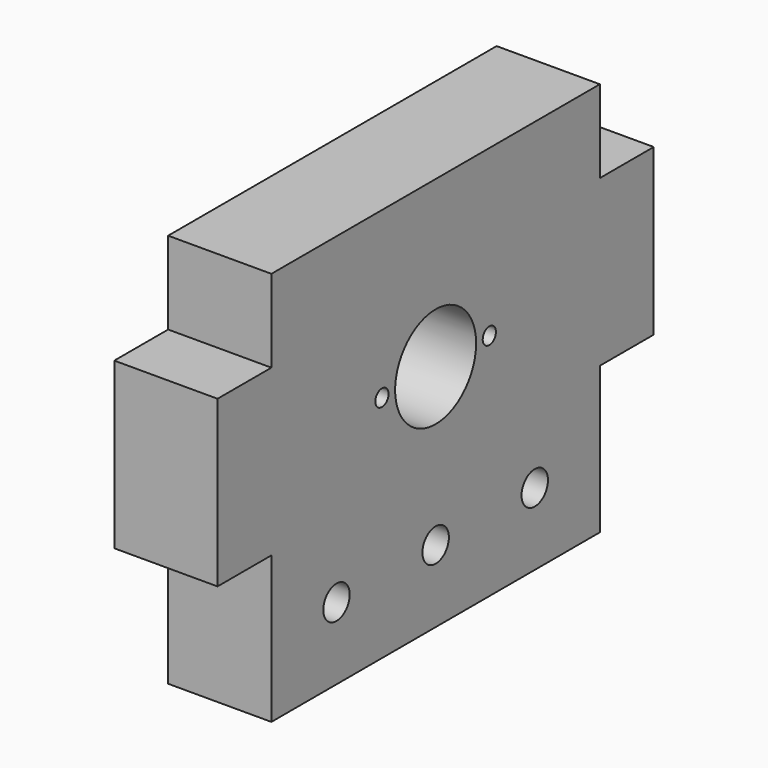
from build123d import *

# Parameters (mm, degrees)
SKETCH_R      = 12.25
SKETCH_R_2    = 2
SKETCH_R_3    = 4
PAD_DEPTH     = 12.5
SKETCH001_W   = 8
SKETCH001_H   = 40
PAD001_DEPTH  = 12.5
SKETCH002_W   = 8
SKETCH002_H   = 40
PAD002_DEPTH  = 12.5
SKETCH003_R   = 20.25
SKETCH003_R_2 = 12.25
SKETCH003_R_3 = 2
PAD003_DEPTH  = 12.5


with BuildPart() as part:
    # Sketch → Pad (new body, symmetric)
    with BuildSketch(Plane.YZ):
        Polygon((-49.7, 40), (49.7, 40), (49.7, 20), (66, 20), (66, -20), (49.7, -20), (49.7, -55.5), (-49.7, -55.5), (-49.7, -20), (-66, -20), (-66, 20), (-49.7, 20), align=None)
        Circle(SKETCH_R, mode=Mode.SUBTRACT)
        with Locations((-16.25, 0)):
            Circle(SKETCH_R_2, mode=Mode.SUBTRACT)
        with Locations((16.25, 0)):
            Circle(SKETCH_R_2, mode=Mode.SUBTRACT)
        with Locations((0, -38)):
            Circle(SKETCH_R_3, mode=Mode.SUBTRACT)
        with Locations((-30, -38)):
            Circle(SKETCH_R_3, mode=Mode.SUBTRACT)
        with Locations((30, -38)):
            Circle(SKETCH_R_3, mode=Mode.SUBTRACT)
    extrude(amount=PAD_DEPTH, both=True)

    # Sketch001 → Pad001 (join, symmetric)
    with BuildSketch(Plane.YZ):
        with Locations((-54, 0)):
            Rectangle(SKETCH001_W, SKETCH001_H)
    extrude(amount=PAD001_DEPTH, both=True)

    # Sketch002 → Pad002 (join, symmetric)
    with BuildSketch(Plane.YZ):
        with Locations((54, 0)):
            Rectangle(SKETCH002_W, SKETCH002_H)
    extrude(amount=PAD002_DEPTH, both=True)

    # Sketch003 → Pad003 (join, symmetric)
    with BuildSketch(Plane.YZ):
        Circle(SKETCH003_R)
        Circle(SKETCH003_R_2, mode=Mode.SUBTRACT)
        with Locations((-16.25, 0)):
            Circle(SKETCH003_R_3, mode=Mode.SUBTRACT)
        with Locations((16.25, 0)):
            Circle(SKETCH003_R_3, mode=Mode.SUBTRACT)
    extrude(amount=PAD003_DEPTH, both=True)


solid = part.part
